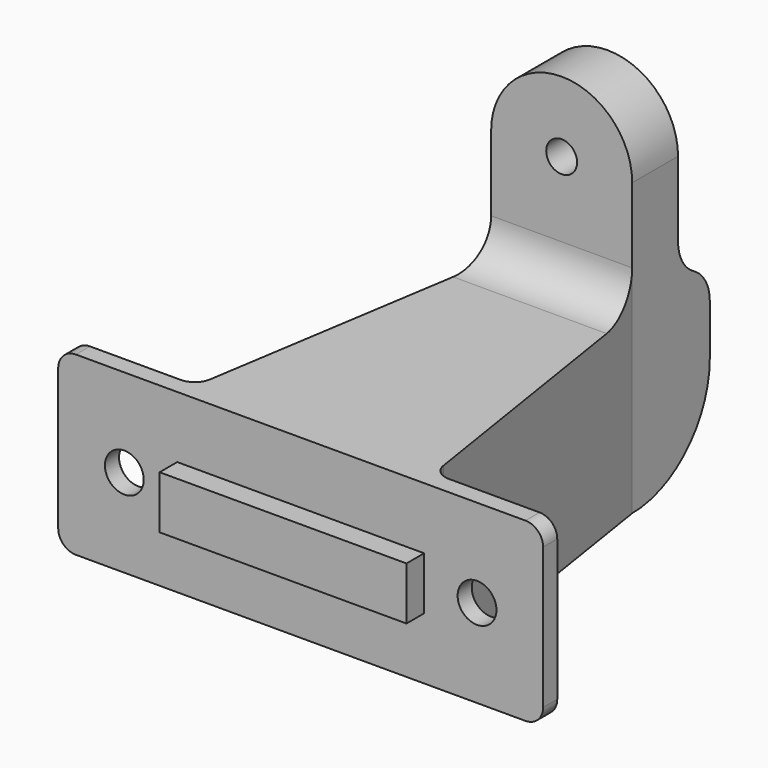
from build123d import *

# Parameters (mm, degrees)
SKETCH035_R        = 2.2
PAD026_DEPTH       = 2
SKETCH036_W        = 28
SKETCH036_H        = 6
PAD027_DEPTH       = 2.5
SKETCH037_W        = 27
SKETCH037_H        = 20
SKETCH038_W        = 16
SKETCH038_H        = 20
FILLET010_R        = 2
SKETCH041_W        = 16
SKETCH041_H        = 20
PAD028_DEPTH       = 11.001
SKETCH039_R        = 1.75
PAD029_DEPTH       = 6.5
FILLET011_R        = 11
FILLET012_R        = 4.5
FILLET013_R        = 4.5
BODY007_ROLL_ANGLE = -90


with BuildPart() as part:
    # Sketch035 → Pad026 (new body)
    with BuildSketch(Plane(origin=(0, 0, 0), x_dir=(1, 0, 0), z_dir=(0, 0, -1))):
        with BuildLine():
            Line((-25.5, 10), (25.5, 10))
            ThreePointArc((27.5, 8), (26.914214, 9.414214), (25.5, 10))
            Line((27.5, 8), (27.5, -8))
            ThreePointArc((25.5, -10), (26.914214, -9.414214), (27.5, -8))
            Line((25.5, -10), (-25.5, -10))
            ThreePointArc((-27.5, -8), (-26.914214, -9.414214), (-25.5, -10))
            Line((-27.5, -8), (-27.5, 8))
            ThreePointArc((-25.5, 10), (-26.914214, 9.414214), (-27.5, 8))
        make_face()
        with Locations((-20, 0)):
            Circle(SKETCH035_R, mode=Mode.SUBTRACT)
        with Locations((20, 0)):
            Circle(SKETCH035_R, mode=Mode.SUBTRACT)
    extrude(amount=PAD026_DEPTH)

    # Sketch036 → Pad027 (join)
    with BuildSketch(Plane(origin=(0, 0, -2), x_dir=(1, 0, 0), z_dir=(0, 0, -1))):
        Rectangle(SKETCH036_W, SKETCH036_H)
    extrude(amount=PAD027_DEPTH)

    # Sketch037 → AdditiveLoft001 section 0
    with BuildSketch(Plane.XY):
        Rectangle(SKETCH037_W, SKETCH037_H)
    # Sketch038 → AdditiveLoft001 section 1
    with BuildSketch(Plane.XY.offset(35)):
        Rectangle(SKETCH038_W, SKETCH038_H)
    loft()

    # Fillet010
    fillet010_edges = [part.edges().sort_by_distance(p)[0] for p in [
        (-13.5, 0, 0),
        (13.5, 0, 0),
    ]]
    fillet(fillet010_edges, radius=FILLET010_R)

    # Sketch041 → Pad028 (join)
    with BuildSketch(Plane.XY.offset(35)):
        Rectangle(SKETCH041_W, SKETCH041_H)
    extrude(amount=PAD028_DEPTH)

    # Sketch039 → Pad029 (join)
    with BuildSketch(Plane(origin=(0, -10, 35), x_dir=(-1, 0, 0), z_dir=(0, 0, 1))):
        with BuildLine():
            Line((8, 0), (-8, 0))
            Line((-8, 0), (-8, 13))
            ThreePointArc((8, 13), (0, 21), (-8, 13))
            Line((8, 13), (8, 0))
        make_face()
        with Locations((0, 13)):
            Circle(SKETCH039_R, mode=Mode.SUBTRACT)
    extrude(amount=PAD029_DEPTH)

    # Fillet011
    fillet011_edges = [part.edges().sort_by_distance(p)[0] for p in [
        (0, 10, 46.001),
    ]]
    fillet(fillet011_edges, radius=FILLET011_R)

    # Fillet012
    fillet012_edges = [part.edges().sort_by_distance(p)[0] for p in [
        (0, -10, 41.5),
        (0, -10, 35),
    ]]
    fillet(fillet012_edges, radius=FILLET012_R)

    # Fillet013
    fillet013_edges = [part.edges().sort_by_distance(p)[0] for p in [
        (0, -10, 46.001),
    ]]
    fillet(fillet013_edges, radius=FILLET013_R)


with BuildPart() as part_1:
    # Body007 roll: moved
    add(part.part.rotate(Axis((0, 0, 0), (1, 0, 0)), BODY007_ROLL_ANGLE))


with BuildPart() as part_2:
    # Body007 placement: moved
    add(part_1.part)


solid = part_2.part
